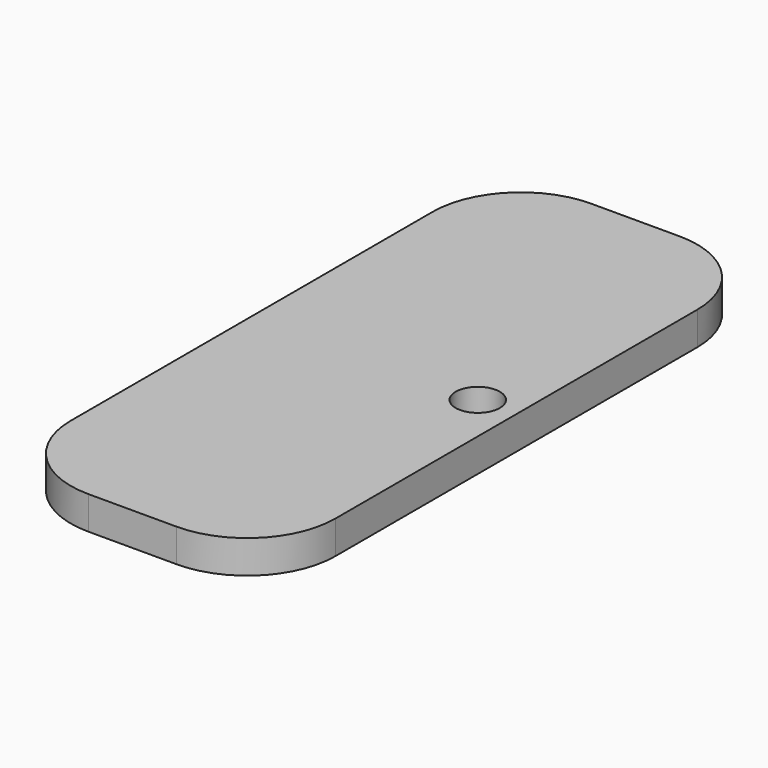
from build123d import *

# Parameters (mm, degrees)
CYLINDER002_R     = 2
CYLINDER002_DEPTH = 10
BOX005_W          = 24
BOX005_H          = 57
BOX005_DEPTH      = 3
FILLET_R          = 8


with BuildPart() as central_bottom_hole:
    # Cylinder002 → Cylinder002 (new body)
    with BuildSketch(Plane(origin=(10.5, 28.5, -4), x_dir=(1, 0, 0), z_dir=(0, 0, 1))):
        Circle(CYLINDER002_R)
    extrude(amount=CYLINDER002_DEPTH)


with BuildPart() as bottom_cut:
    # Box005 → Box005 (new body)
    with BuildSketch(Plane(origin=(-10, 0, 0), x_dir=(1, 0, 0), z_dir=(0, 0, 1))):
        with Locations((12, 28.5)):
            Rectangle(BOX005_W, BOX005_H)
    extrude(amount=BOX005_DEPTH)

    # Fillet
    fillet_edges = [bottom_cut.edges().sort_by_distance(p)[0] for p in [
        (-10, 0, 1.5),
        (-10, 57, 1.5),
        (14, 0, 1.5),
        (14, 57, 1.5),
    ]]
    fillet(fillet_edges, radius=FILLET_R)

    # Cut003: cut central bottom hole
    add(central_bottom_hole.part, mode=Mode.SUBTRACT)


solid = bottom_cut.part
